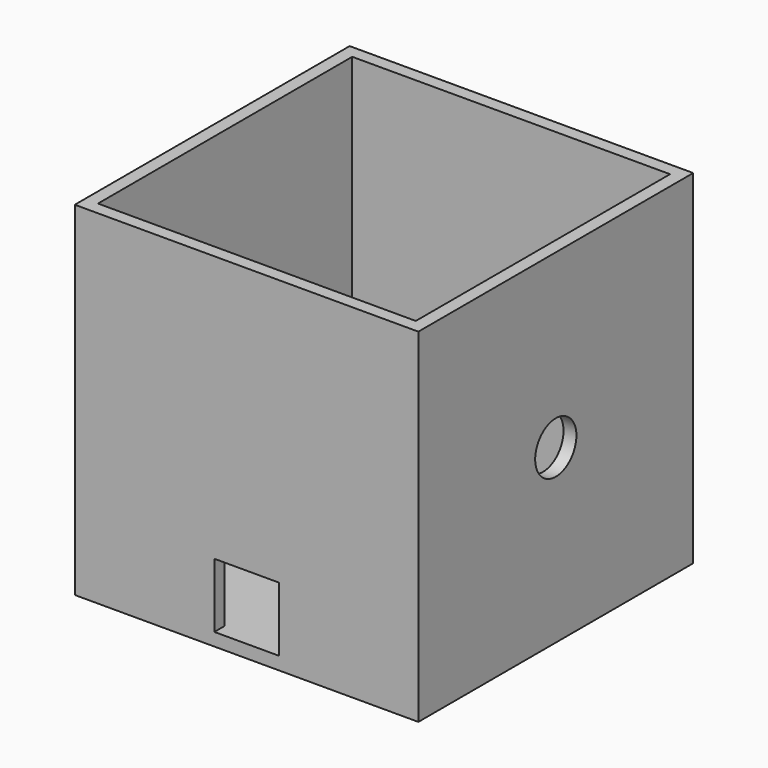
from build123d import *

# Parameters (mm, degrees)
F0_W     = 80
F0_H     = 80
F1_DEPTH = 3
F3_DEPTH = 74
F4_W     = 80
F4_H     = 80
F5_DEPTH = 3
F6_R     = 6
F7_DEPTH = 3
F8_W     = 15
F8_H     = 15
F9_DEPTH = 3


with BuildPart() as f1:
    # F0 (on Front) → F1 (new body)
    with BuildSketch(Plane.XZ):
        Rectangle(F0_W, F0_H)
    extrude(amount=F1_DEPTH)

    # F2 (on face) → F3 (join)
    with BuildSketch(Plane(origin=(0, 0, 0), x_dir=(-1, 0, 0), z_dir=(0, 1, 0))):
        Polygon((-40, -40), (40, -40), (40, 40), (37, 40), (37, 37), (37, -37), (-37, -37), (-37, 37), (-37, 40), (-40, 40), align=None)
    extrude(amount=F3_DEPTH)

    # F4 (on face) → F5 (join)
    with BuildSketch(Plane(origin=(0, 74, 0), x_dir=(-1, 0, 0), z_dir=(0, 1, 0))):
        Rectangle(F4_W, F4_H)
    extrude(amount=F5_DEPTH)

    # F6 (on face) → F7 (cut)
    with BuildSketch(Plane.YZ.offset(40)):
        with Locations((37, 0)):
            Circle(F6_R)
    extrude(amount=-F7_DEPTH, mode=Mode.SUBTRACT)

    # F8 (on face) → F9 (cut)
    with BuildSketch(Plane.XZ.offset(3)):
        with Locations((0, -29.5)):
            Rectangle(F8_W, F8_H)
    extrude(amount=-F9_DEPTH, mode=Mode.SUBTRACT)


solid = f1.part
